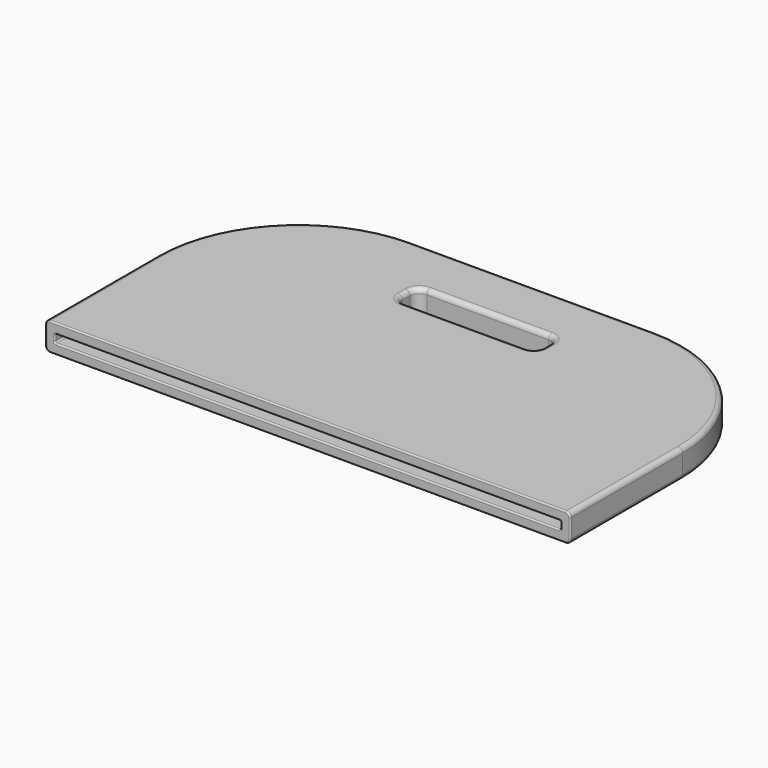
from build123d import *

# Parameters (mm, degrees)
F0_W     = 56
F0_H     = 30
F0_W_2   = 15
F0_H_2   = 3
F1_DEPTH = 3
F2_R     = 15
F3_R     = 1
F4_R     = 0.5
F5_W     = 54
F5_H     = 0.85
F6_DEPTH = 15
F7_R     = 0.15


with BuildPart() as f1:
    # F0 (on Top) → F1 (new body)
    with BuildSketch(Plane.XY):
        with Locations((0, 15)):
            Rectangle(F0_W, F0_H)
        with Locations((0, 22.5)):
            Rectangle(F0_W_2, F0_H_2, mode=Mode.SUBTRACT)
    extrude(amount=F1_DEPTH)

    # F2
    f2_edges = [f1.edges().sort_by_distance(p)[0] for p in [
        (28, 30, 1.5),
        (-28, 30, 1.5),
    ]]
    fillet(f2_edges, radius=F2_R)

    # F3
    f3_edges = [f1.edges().sort_by_distance(p)[0] for p in [
        (-7.5, 24, 1.5),
        (7.5, 21, 1.5),
        (7.5, 24, 1.5),
        (-7.5, 21, 1.5),
    ]]
    fillet(f3_edges, radius=F3_R)

    # F4
    f4_edges = [f1.edges().sort_by_distance(p)[0] for p in [
        (0, 30, 3),
        (0, 30, 0),
        (0, 24, 3),
        (0, 24, 0),
    ]]
    fillet(f4_edges, radius=F4_R)

    # F5 (on face) → F6 (cut)
    with BuildSketch(Plane.XZ):
        with Locations((0, 1.5)):
            Rectangle(F5_W, F5_H)
    extrude(amount=-F6_DEPTH, mode=Mode.SUBTRACT)

    # F7
    f7_edges = [f1.edges().sort_by_distance(p)[0] for p in [
        (-27, 7.5, 1.075),
        (0, 15, 1.075),
        (-27, 15, 1.5),
        (-27, 7.5, 1.925),
        (0, 15, 1.925),
        (27, 15, 1.5),
        (27, 7.5, 1.075),
        (27, 7.5, 1.925),
        (27, 0, 1.5),
        (-28, 0, 1.5),
        (-27.853553, 0, 0.146447),
        (-27.853553, 0, 2.853553),
        (0, 0, 0),
        (0, 0, 3),
        (27.853553, 0, 0.146447),
        (27.853553, 0, 2.853553),
        (28, 0, 1.5),
        (0, 0, 1.925),
        (0, 0, 1.075),
        (-27, 0, 1.5),
    ]]
    fillet(f7_edges, radius=F7_R)


solid = f1.part
